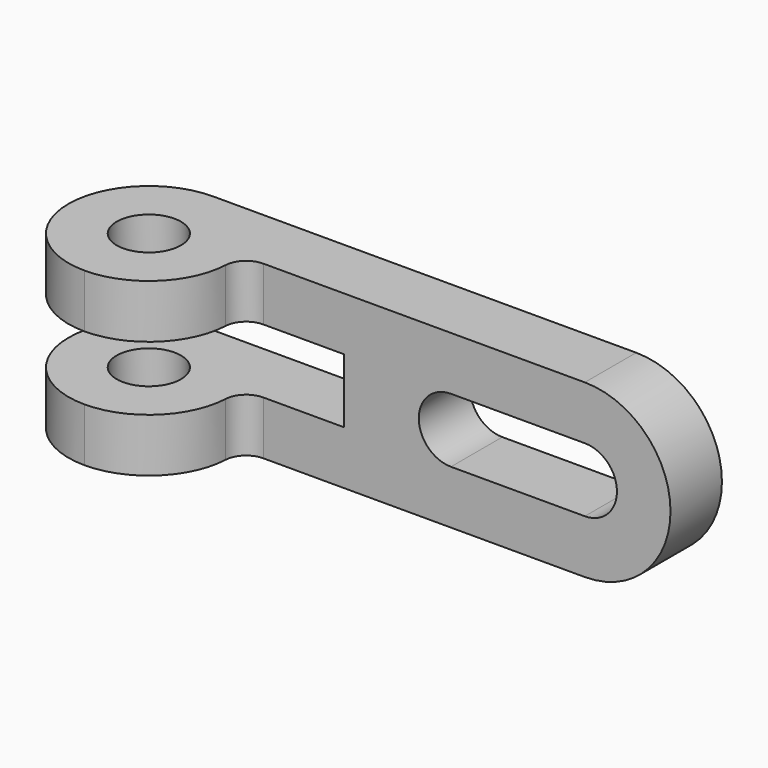
from build123d import *

# Parameters (mm, degrees)
F1_DEPTH = 12
F2_DEPTH = 30
F3_DEPTH = 25
F4_DEPTH = 25
F5_R     = 6
F5_W     = 16
F5_H     = 12
F6_DEPTH = 46.7


with BuildPart() as f1:
    # F0 (on Front) → F1 (new body)
    with BuildSketch(Plane.XZ):
        with BuildLine():
            Line((-94, -16), (0, -16))
            ThreePointArc((0, -16), (16, 0), (0, 16))
            Line((0, 16), (-94, 16))
            Line((-94, 16), (-94, 6))
            Line((-94, 6), (-45, 6))
            Line((-45, 6), (-45, -6))
            Line((-45, -6), (-94, -6))
            Line((-94, -6), (-94, -16))
        make_face()
        with BuildLine():
            ThreePointArc((-25, -6), (-31, 0), (-25, 6))
            Line((-25, 6), (0, 6))
            ThreePointArc((0, 6), (6, 0), (0, -6))
            Line((0, -6), (-25, -6))
        make_face(mode=Mode.SUBTRACT)
        with BuildLine():
            Line((0, 6), (-25, 6))
            ThreePointArc((-25, 6), (-31, 0), (-25, -6))
            Line((-25, -6), (0, -6))
            ThreePointArc((0, -6), (6, 0), (0, 6))
        make_face()
    extrude(amount=F1_DEPTH)

    # F0 (on Front) → F2 (join)
    with BuildSketch(Plane.XZ):
        with BuildLine():
            Line((-94, -16), (0, -16))
            ThreePointArc((0, -16), (16, 0), (0, 16))
            Line((0, 16), (-94, 16))
            Line((-94, 16), (-94, 6))
            Line((-94, 6), (-45, 6))
            Line((-45, 6), (-45, -6))
            Line((-45, -6), (-94, -6))
            Line((-94, -6), (-94, -16))
        make_face()
        with BuildLine():
            ThreePointArc((-25, -6), (-31, 0), (-25, 6))
            Line((-25, 6), (0, 6))
            ThreePointArc((0, 6), (6, 0), (0, -6))
            Line((0, -6), (-25, -6))
        make_face(mode=Mode.SUBTRACT)
    extrude(amount=F2_DEPTH)

    # F0 (on Front) → F3 (join)
    with BuildSketch(Plane.XZ):
        with BuildLine():
            Line((0, 6), (-25, 6))
            ThreePointArc((-25, 6), (-31, 0), (-25, -6))
            Line((-25, -6), (0, -6))
            ThreePointArc((0, -6), (6, 0), (0, 6))
        make_face()
    extrude(amount=F3_DEPTH)

    # F0 (on Front) → F4 (cut)
    with BuildSketch(Plane.XZ):
        with BuildLine():
            Line((0, 6), (-25, 6))
            ThreePointArc((-25, 6), (-31, 0), (-25, -6))
            Line((-25, -6), (0, -6))
            ThreePointArc((0, -6), (6, 0), (0, 6))
        make_face()
    extrude(amount=F4_DEPTH, mode=Mode.SUBTRACT)

    # F5 (on face) → F6 (intersect)
    with BuildSketch(Plane.XY.offset(16)):
        with BuildLine():
            Line((0, 0), (-79, 0))
            ThreePointArc((-79, 0), (-89.6066017178, -4.3933982822), (-94, -15))
            ThreePointArc((-94, -15), (-89.6066017178, -25.6066017178), (-79, -30))
            ThreePointArc((-79, -30), (-68.6762919758, -25.8821437517), (-64.0207900308, -15.7894736842))
            ThreePointArc((-64.0207900308, -15.7894736842), (-62.7793228454, -13.0980949996), (-60.026334039, -12))
            Line((-60.026334039, -12), (0, -12))
            Line((0, -12), (0, 0))
        make_face()
        with Locations((-79, -15)):
            Circle(F5_R, mode=Mode.SUBTRACT)
        with Locations((8, -6)):
            Rectangle(F5_W, F5_H)
    extrude(amount=-F6_DEPTH, mode=Mode.INTERSECT)


solid = f1.part
